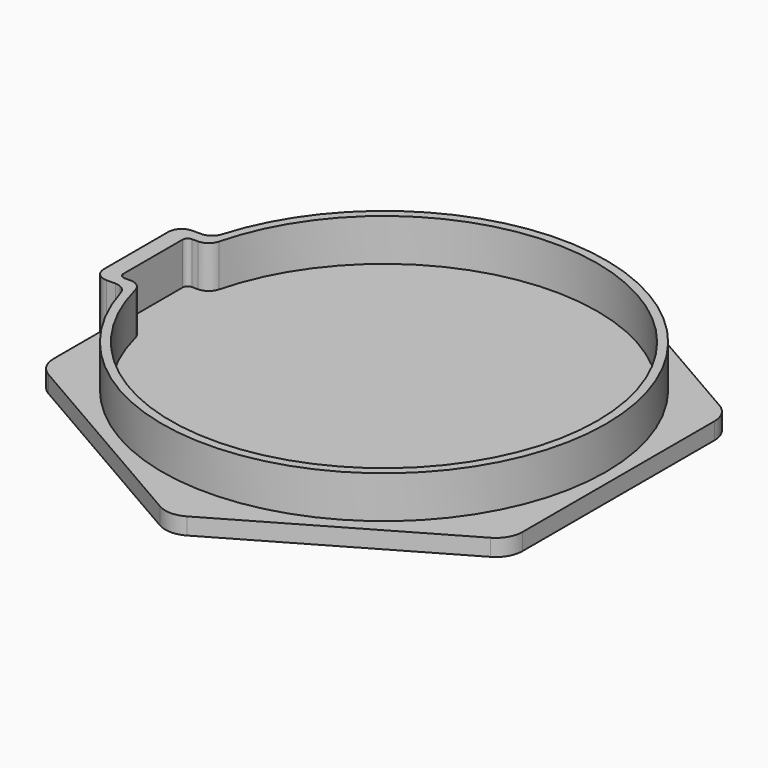
from build123d import *

# Parameters (mm, degrees)
F1_DEPTH = 3.9878
F2_W     = 3.175
F2_H     = 25.4
F3_DEPTH = 3.9878
F5_DEPTH = 9.9822
F6_R     = 6.35
F7_R     = 1.27
F8_R     = 3.175


with BuildPart() as f1:
    # F0 (on Top) → F1 (new body)
    with BuildSketch(Plane.XY):
        Polygon((55.499, 32.042363), (0, 64.084725), (-55.499, 32.042363), (-55.499, -32.042363), (0, -64.084725), (55.499, -32.042363), align=None)
    extrude(amount=F1_DEPTH)

    # F2 (on face) → F3 (join, through all)
    with BuildSketch(Plane.XY.offset(3.9878)):
        with Locations((-57.0865, 0)):
            Rectangle(F2_W, F2_H)
    extrude(amount=-F3_DEPTH)

    # F4 (on face) → F5 (join)
    with BuildSketch(Plane.XY.offset(3.9878)):
        with BuildLine():
            Line((-55.499, -12.7), (-50.955694, -12.7))
            ThreePointArc((-50.955694, -12.7), (52.5145, 0), (-50.955694, 12.7))
            Line((-50.955694, 12.7), (-55.499, 12.7))
            Line((-55.499, 12.7), (-58.674, 12.7))
            Line((-58.674, 12.7), (-58.674, -12.7))
            Line((-58.674, -12.7), (-55.499, -12.7))
        make_face()
        with BuildLine():
            ThreePointArc((-49.483177, 9.9949), (50.4825, 0), (-49.483177, -9.9949))
            Line((-49.483177, -9.9949), (-54.690177, -9.9949))
            Line((-54.690177, -9.9949), (-54.690177, 9.9949))
            Line((-54.690177, 9.9949), (-49.483177, 9.9949))
        make_face(mode=Mode.SUBTRACT)
    extrude(amount=F5_DEPTH)

    # F6
    f6_edges = [f1.edges().sort_by_distance(p)[0] for p in [
        (-55.499, -32.042363, 1.9939),
        (0, -64.084725, 1.9939),
        (55.499, -32.042363, 1.9939),
        (55.499, 32.042363, 1.9939),
        (0, 64.084725, 1.9939),
        (-55.499, 32.042363, 1.9939),
    ]]
    fillet(f6_edges, radius=F6_R)

    # F7
    f7_edges = [f1.edges().sort_by_distance(p)[0] for p in [
        (-54.690177, -9.9949, 8.9789),
        (-54.690177, 9.9949, 8.9789),
    ]]
    fillet(f7_edges, radius=F7_R)

    # F8
    f8_edges = [f1.edges().sort_by_distance(p)[0] for p in [
        (-49.483177, -9.9949, 8.9789),
        (-49.483177, 9.9949, 8.9789),
        (-50.955694, 12.7, 8.9789),
        (-58.674, 12.7, 6.985),
        (-58.674, -12.7, 6.985),
        (-50.955694, -12.7, 8.9789),
    ]]
    fillet(f8_edges, radius=F8_R)


solid = f1.part
